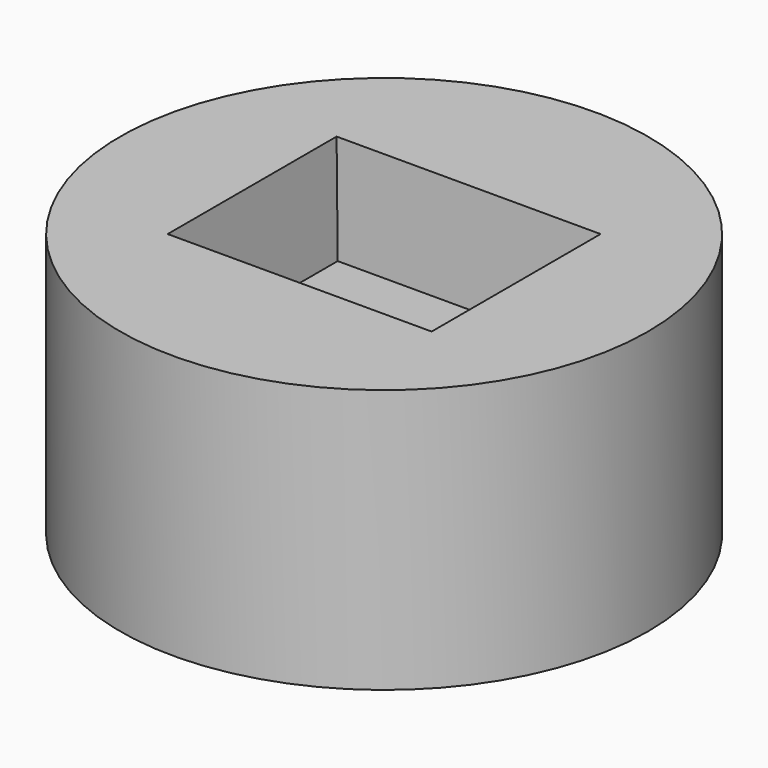
from build123d import *

# Parameters (mm, degrees)
F0_R     = 25
F1_DEPTH = 25
F2_W     = 25
F2_H     = 20
F3_DEPTH = 10
F3_TAPER = 3


with BuildPart() as f1:
    # F0 (on Top) → F1 (new body)
    with BuildSketch(Plane.XY):
        Circle(F0_R)
    extrude(amount=F1_DEPTH)

    # F2 (on face) → F3 (cut)
    with BuildSketch(Plane.XY.offset(25)):
        Rectangle(F2_W, F2_H)
    extrude(amount=-F3_DEPTH, taper=F3_TAPER, mode=Mode.SUBTRACT)


solid = f1.part
